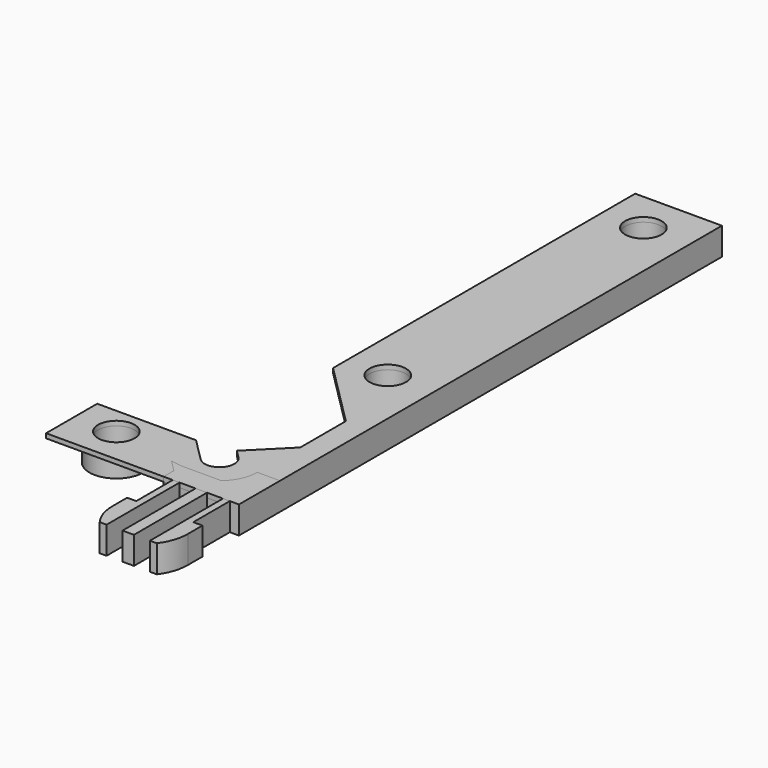
from build123d import *

# Parameters (mm, degrees)
F0_R     = 4
F0_W     = 19
F0_H     = 69
F1_DEPTH = 1
F2_R     = 5.9
F2_R_2   = 4
F3_DEPTH = 5
F5_DEPTH = 2.02602933
F6_W     = 5
F6_H     = 132.25
F7_DEPTH = 5
F8_W     = 2.5
F8_H     = 20
F9_DEPTH = 6


with BuildPart() as f1:
    # F0 (on Top) → F1 (new body)
    with BuildSketch(Plane.XY):
        with BuildLine():
            ThreePointArc((2.2980970389, 2.2980970389), (3.0026084807, 1.2437211552), (3.25, 0))
            ThreePointArc((3.25, 0), (1.2437211552, -3.0026084807), (-2.2980970389, -2.2980970389))
            Line((-2.2980970389, -2.2980970389), (-7.3461940777, 2.75))
            Line((-7.3461940777, 2.75), (-29, 2.75))
            Line((-29, 2.75), (-29, -11.25))
            Line((-29, -11.25), (13.25, -11.25))
            Line((13.25, -11.25), (13.25, 52))
            Line((13.25, 52), (-5.75, 52))
            Line((-5.75, 52), (-5.75, 38.2720779386))
            Line((-5.75, 38.2720779386), (8.25, 24.2720779386))
            Line((8.25, 24.2720779386), (8.25, 11.7855339059))
            Line((8.25, 11.7855339059), (0.5303300859, 4.0658639918))
            Line((0.5303300859, 4.0658639918), (2.2980970389, 2.2980970389))
        make_face()
        with Locations((-20, -3.25)):
            Circle(F0_R, mode=Mode.SUBTRACT)
        with Locations((3.25, 42)):
            Circle(F0_R, mode=Mode.SUBTRACT)
        with Locations((3.75, 86.5)):
            Rectangle(F0_W, F0_H)
        with Locations((3.25, 112)):
            Circle(F0_R, mode=Mode.SUBTRACT)
    extrude(amount=-F1_DEPTH)

    # F2 (on face) → F3 (join)
    with BuildSketch(Plane(origin=(0, 0, -1), x_dir=(1, 0, 0), z_dir=(0, 0, -1))):
        with Locations((-20, 3.25)):
            Circle(F2_R)
        with Locations((-20, 3.25)):
            Circle(F2_R_2, mode=Mode.SUBTRACT)
        with BuildLine():
            Line((-11.5888347648, -2.75), (-8.2554414615, 0.5833933033))
            ThreePointArc((-8.2554414615, 0.5833933033), (-7.5296004881, 3.434789362), (-5.8520364605, 5.8520364605))
            Line((-5.8520364605, 5.8520364605), (-14.4540729211, -2.75))
            Line((-14.4540729211, -2.75), (-11.5888347648, -2.75))
        make_face()
        with BuildLine():
            ThreePointArc((-4.4194173824, 4.4194173824), (2.3917714523, 5.7742470782), (6.25, 0))
            ThreePointArc((6.25, 0), (5.7742470782, -2.3917714523), (4.4194173824, -4.4194173824))
            Line((4.4194173824, -4.4194173824), (2.6516504294, -6.1871843354))
            Line((2.6516504294, -6.1871843354), (3.8108825911, -7.346416497))
            ThreePointArc((3.8108825911, -7.346416497), (4.8888949746, -6.6776767965), (5.8520364605, -5.8520364605))
            ThreePointArc((5.8520364605, -5.8520364605), (7.6460541085, -3.1670993104), (8.27602933, 0))
            ThreePointArc((8.27602933, 0), (3.1670993104, 7.6460541085), (-5.8520364605, 5.8520364605))
            ThreePointArc((-5.8520364605, 5.8520364605), (-7.5296004881, 3.434789362), (-8.2554414615, 0.5833933033))
            Line((-8.2554414615, 0.5833933033), (-4.4194173824, 4.4194173824))
        make_face()
        with BuildLine():
            ThreePointArc((5.8520364605, -5.8520364605), (4.8888949746, -6.6776767965), (3.8108825911, -7.346416497))
            Line((3.8108825911, -7.346416497), (4.0842695076, -7.6198034135))
            Line((4.0842695076, -7.6198034135), (5.8520364605, -5.8520364605))
        make_face()
        with Locations((3.25, -42)):
            Circle(F2_R)
        with Locations((3.25, -42)):
            Circle(F2_R_2, mode=Mode.SUBTRACT)
        with Locations((3.25, -112)):
            Circle(F2_R)
        with Locations((3.25, -112)):
            Circle(F2_R_2, mode=Mode.SUBTRACT)
    extrude(amount=F3_DEPTH)

    # F4 (on face) → F5 (join, through all)
    with BuildSketch(Plane(origin=(5.8520364605, 5.8520364605, 0), x_dir=(-0.7071067812, 0.7071067812, 0), z_dir=(0.7071067812, 0.7071067812, 0))):
        Polygon((2.5, -1), (2.5, -6), (7, -6), (7, -5.5), align=None)
    extrude(amount=-F5_DEPTH)

    # F6 (on face) → F7 (join)
    with BuildSketch(Plane(origin=(0, 0, -1), x_dir=(1, 0, 0), z_dir=(0, 0, -1))):
        with Locations((10.75, -54.875)):
            Rectangle(F6_W, F6_H)
    extrude(amount=F7_DEPTH)

    # F8 (on Top) → F9 (join)
    with BuildSketch(Plane.XY):
        Polygon((11.25, -11.25), (13.25, -11.25), (13.25, -6.25), (5.4249572783, -6.25), (-3.25, -6.25), (-3.25, -8.4540729211), (-3.25, -11.25), (-1.25, -11.25), (0.25, -11.25), (3.75, -11.25), (6.25, -11.25), (9.75, -11.25), align=None)
        with BuildLine():
            Line((11.25, -21.25), (11.25, -11.25))
            Line((11.25, -11.25), (9.75, -11.25))
            Line((9.75, -11.25), (9.75, -31.25))
            Line((9.75, -31.25), (11.25, -31.25))
            ThreePointArc((11.25, -31.25), (12.7368329805, -28.4122776602), (13.25, -25.25))
            Line((13.25, -25.25), (13.25, -21.25))
            Line((13.25, -21.25), (11.25, -21.25))
        make_face()
        with BuildLine():
            Line((5.4249572783, -6.25), (13.25, -6.25))
            Line((13.25, -6.25), (13.25, 0))
            Line((13.25, 0), (8.27602933, 0))
            ThreePointArc((8.27602933, 0), (7.5296004881, -3.434789362), (5.4249572783, -6.25))
        make_face()
        with Locations((5, -21.25)):
            Rectangle(F8_W, F8_H)
        Polygon((-3.25, -8.4540729211), (-3.25, -6.25), (-5.8520364605, -5.8520364605), align=None)
        with BuildLine():
            Line((0.25, -31.25), (0.25, -11.25))
            Line((0.25, -11.25), (-1.25, -11.25))
            Line((-1.25, -11.25), (-1.25, -21.25))
            Line((-1.25, -21.25), (-3.25, -21.25))
            Line((-3.25, -21.25), (-3.25, -25.25))
            ThreePointArc((-3.25, -25.25), (-2.7368329805, -28.4122776602), (-1.25, -31.25))
            Line((-1.25, -31.25), (0.25, -31.25))
        make_face()
    extrude(amount=-F9_DEPTH)


solid = f1.part
